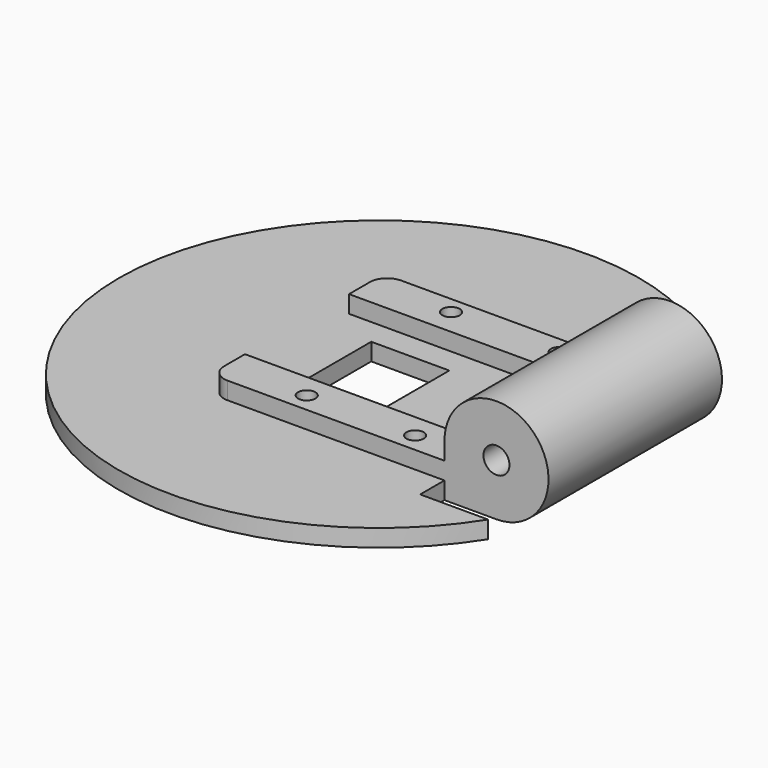
from build123d import *

# Parameters (mm, degrees)
F0_R     = 1.5
F1_DEPTH = 12.5
F2_R     = 2
F3_R     = 1
F3_W     = 9
F3_H     = 9
F4_DEPTH = 2
F5_R     = 1
F6_DEPTH = 2
F8_DEPTH = 2


with BuildPart() as f1:
    # F0 (on Front) → F1 (new body, symmetric)
    with BuildSketch(Plane.XZ):
        with BuildLine():
            ThreePointArc((0, -6), (4.2426406871, 4.2426406871), (-6, 0))
            Line((-6, 0), (-6, -4))
            Line((-6, -4), (-33, -4))
            Line((-33, -4), (-33, -6))
            Line((-33, -6), (0, -6))
        make_face()
        Circle(F0_R, mode=Mode.SUBTRACT)
    extrude(amount=F1_DEPTH, both=True)

    # F2
    f2_edges = [f1.edges().sort_by_distance(p)[0] for p in [
        (-33, -12.5, -5),
        (-33, 12.5, -5),
    ]]
    fillet(f2_edges, radius=F2_R)

    # F3 (on face) → F4 (cut, through all)
    with BuildSketch(Plane.XY.offset(-4)):
        with Locations((-23.638, 10.5)):
            Circle(F3_R)
        with Locations((-11.138, 10.5)):
            Circle(F3_R)
        with Locations((-11.138, -10.3)):
            Circle(F3_R)
        with Locations((-23.638, -10.3)):
            Circle(F3_R)
        with Locations((-23.538, 0)):
            Rectangle(F3_W, F3_H)
    extrude(amount=-F4_DEPTH, mode=Mode.SUBTRACT)

    # F5 (on face) → F6 (join)
    with BuildSketch(Plane.XY.offset(-4)):
        with BuildLine():
            Line((-6, -12.5), (-6, -7.5))
            Line((-6, -7.5), (-33, -7.5))
            Line((-33, -7.5), (-33, -10.5))
            ThreePointArc((-33, -10.5), (-32.4142135624, -11.9142135624), (-31, -12.5))
            Line((-31, -12.5), (-6, -12.5))
        make_face()
        with Locations((-23.638, -10.3)):
            Circle(F5_R, mode=Mode.SUBTRACT)
        with Locations((-11.138, -10.3)):
            Circle(F5_R, mode=Mode.SUBTRACT)
        with BuildLine():
            Line((-33, 7.5), (-6, 7.5))
            Line((-6, 7.5), (-6, 12.5))
            Line((-6, 12.5), (-31, 12.5))
            ThreePointArc((-31, 12.5), (-32.4142135624, 11.9142135624), (-33, 10.5))
            Line((-33, 10.5), (-33, 7.5))
        make_face()
        with Locations((-23.638, 10.5)):
            Circle(F5_R, mode=Mode.SUBTRACT)
        with Locations((-11.138, 10.5)):
            Circle(F5_R, mode=Mode.SUBTRACT)
    extrude(amount=F6_DEPTH)

    # F7 (on face) → F8 (join, through all)
    with BuildSketch(Plane(origin=(0, 0, -6), x_dir=(1, 0, 0), z_dir=(0, 0, -1))):
        with BuildLine():
            Line((-6, 16), (1.8391550809, 16))
            ThreePointArc((1.8391550809, 16), (-53.538, 0), (1.8391550809, -16))
            Line((1.8391550809, -16), (-6, -16))
            Line((-6, -16), (-6, -12.5))
            Line((-6, -12.5), (-31, -12.5))
            ThreePointArc((-31, -12.5), (-32.4142135624, -11.9142135624), (-33, -10.5))
            Line((-33, -10.5), (-33, 10.5))
            ThreePointArc((-33, 10.5), (-32.4142135624, 11.9142135624), (-31, 12.5))
            Line((-31, 12.5), (-6, 12.5))
            Line((-6, 12.5), (-6, 16))
        make_face()
    extrude(amount=-F8_DEPTH)


solid = f1.part
